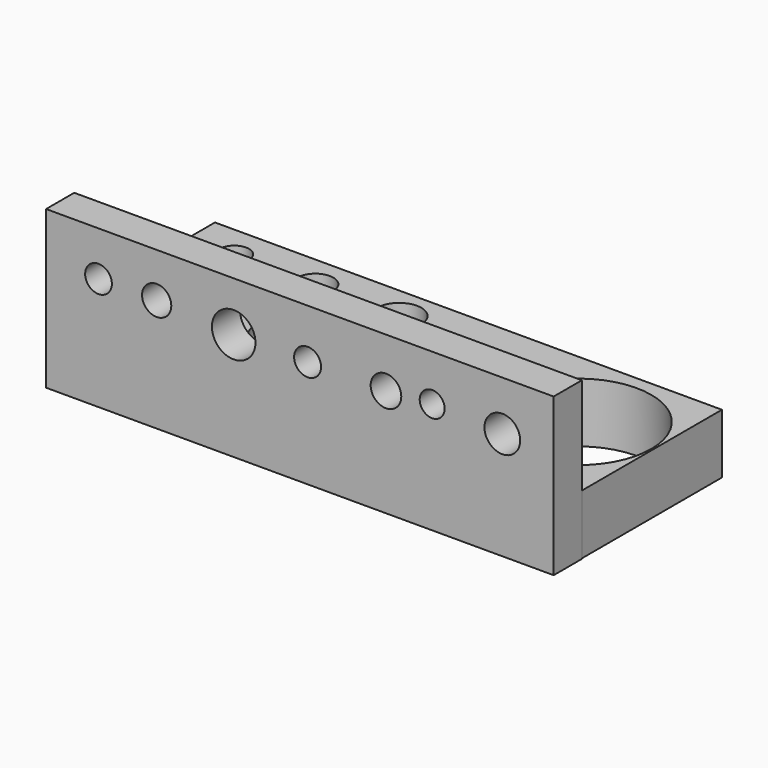
from build123d import *

# Parameters (mm, degrees)
F0_W     = 365.9882545471
F0_H     = 43.0952832103
F1_DEPTH = 127
F2_R     = 17.6971191765
F2_R_2   = 10.7051972913
F2_R_3   = 13.0240698206
F2_R_4   = 16.9813148573
F2_R_5   = 21.1576979937
F2_R_6   = 15.977077603
F2_R_7   = 52.8296986553
F3_DEPTH = 254
F4_W     = 366.437792778
F4_H     = 113.5783046484
F4_R     = 9.6480808664
F4_R_2   = 10.5544944744
F4_R_3   = 15.7229424231
F4_R_4   = 9.7312286453
F4_R_5   = 11.0489584241
F4_R_6   = 8.9931980907
F4_R_7   = 12.8970231178
F5_DEPTH = 25.4


with BuildPart() as f1:
    # F0 (on Front) → F1 (new body)
    with BuildSketch(Plane.XZ):
        with Locations((-5.7889074087, 69.1454075277)):
            Rectangle(F0_W, F0_H)
    extrude(amount=F1_DEPTH)

    # F2 (on face) → F3 (cut)
    with BuildSketch(Plane.XY.offset(90.6930491328)):
        with Locations((-150.8334428072, -87.9421010613)):
            Circle(F2_R)
        with Locations((-155.9791564941, -23.6207954586)):
            Circle(F2_R_2)
        with Locations((-97.4467620254, -23.6207954586)):
            Circle(F2_R_3)
        with Locations((-75.577519834, -84.7260355949)):
            Circle(F2_R_4)
        with Locations((7.3969732039, -84.082826972)):
            Circle(F2_R_5)
        with Locations((-36.3415181637, -24.2640078068)):
            Circle(F2_R_6)
        with Locations((123.1753155589, -62.2135810554)):
            Circle(F2_R_7)
    extrude(amount=-F3_DEPTH, mode=Mode.SUBTRACT)

    # F4 (on face) → F5 (join)
    with BuildSketch(Plane.XZ.offset(127)):
        with Locations((-5.5641382933, 104.3869182467)):
            Rectangle(F4_W, F4_H)
        with Locations((-150.9379148483, 129.0579885244)):
            Circle(F4_R, mode=Mode.SUBTRACT)
        with Locations((-108.9373454452, 129.0579885244)):
            Circle(F4_R_2, mode=Mode.SUBTRACT)
        with Locations((-53.3483624458, 125.3520548344)):
            Circle(F4_R_3, mode=Mode.SUBTRACT)
        with Locations((0, 125.3520548344)):
            Circle(F4_R_4, mode=Mode.SUBTRACT)
        with Locations((56.5943047404, 125.3520548344)):
            Circle(F4_R_5, mode=Mode.SUBTRACT)
        with Locations((89.9476930499, 127.8226822615)):
            Circle(F4_R_6, mode=Mode.SUBTRACT)
        with Locations((140.5954509974, 125.3520548344)):
            Circle(F4_R_7, mode=Mode.SUBTRACT)
    extrude(amount=F5_DEPTH)


solid = f1.part
